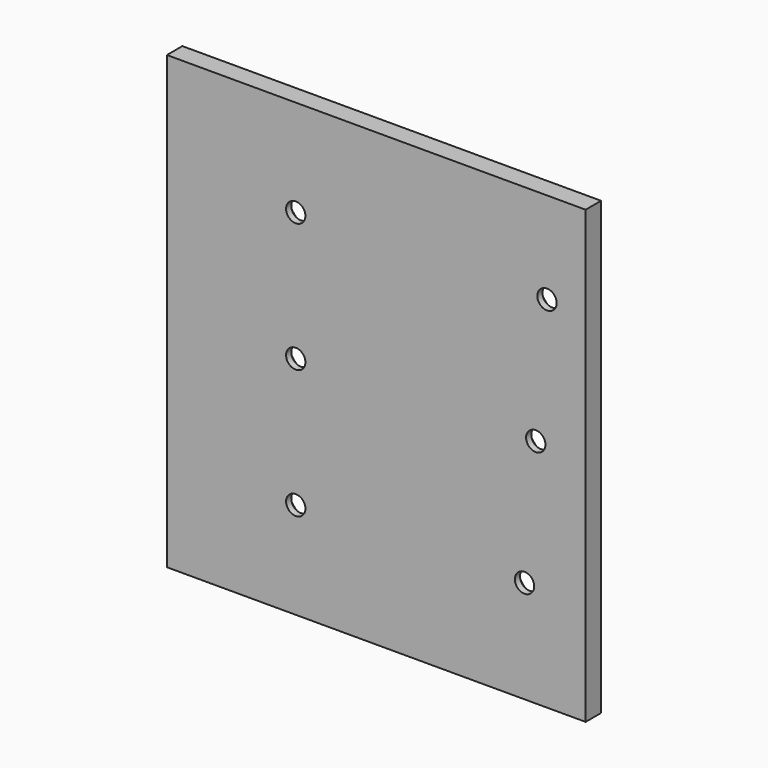
from build123d import *

# Parameters (mm, degrees)
F0_W     = 65
F0_H     = 70
F0_R     = 1.5
F1_DEPTH = 3
F2_SIZE  = 2


with BuildPart() as f1:
    # F0 (on Front) → F1 (new body)
    with BuildSketch(Plane.XZ):
        with Locations((5.904023, -6.129074)):
            Rectangle(F0_W, F0_H)
        with Locations((-6.595977, -26.129074)):
            Circle(F0_R, mode=Mode.SUBTRACT)
        with Locations((28.917793, -25.198905)):
            Circle(F0_R, mode=Mode.SUBTRACT)
        with Locations((-6.595977, -6.129074)):
            Circle(F0_R, mode=Mode.SUBTRACT)
        with Locations((-6.595977, 13.870926)):
            Circle(F0_R, mode=Mode.SUBTRACT)
        with Locations((30.660908, -5.275011)):
            Circle(F0_R, mode=Mode.SUBTRACT)
        with Locations((32.404023, 14.648883)):
            Circle(F0_R, mode=Mode.SUBTRACT)
    extrude(amount=F1_DEPTH)

    # F2
    f2_edges = [f1.edges().sort_by_distance(p)[0] for p in [
        (30.904023, 0, 14.648883),
        (-8.095977, 0, 13.870926),
        (29.160908, 0, -5.275011),
        (-8.095977, 0, -6.129074),
        (-8.095977, 0, -26.129074),
        (27.417793, 0, -25.198905),
    ]]
    chamfer(f2_edges, length=F2_SIZE)


solid = f1.part
